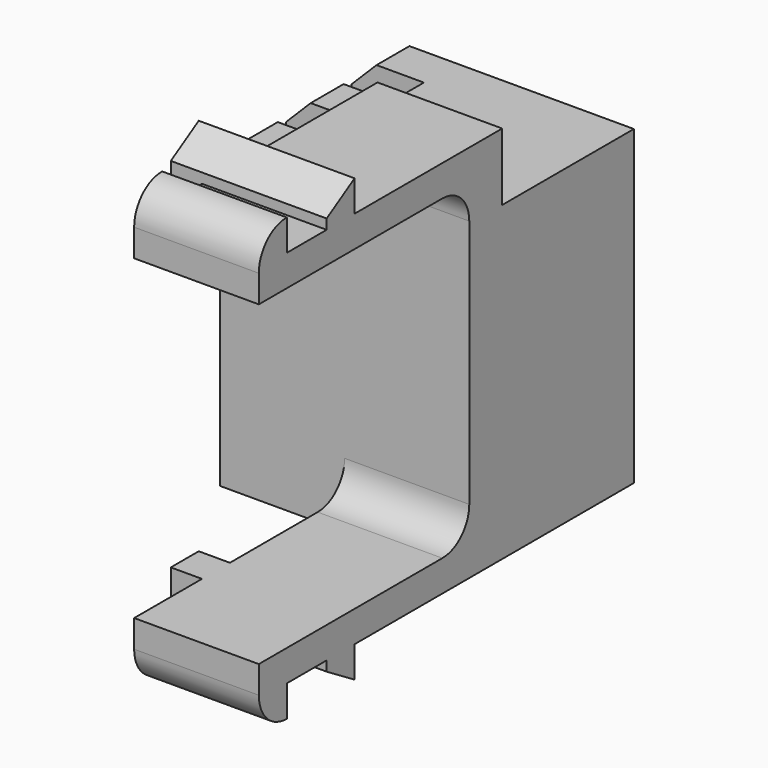
from build123d import *

# Parameters (mm, degrees)
PAD017_DEPTH              = 5
PAD020_DEPTH              = 6.25
SKETCH038_W               = 10
SKETCH038_H               = 1.65
PAD021_DEPTH              = 5
SKETCH078_W               = 12.5
SKETCH078_H               = 1.65
PAD047_DEPTH              = 10
SKETCH076_W               = 9.6
SKETCH076_H               = 1.65
PAD048_DEPTH              = 10
SKETCH075_W               = 12.5
SKETCH075_H               = 1.65
PAD049_DEPTH              = 7.1
SKETCH077_W               = 12.5
SKETCH077_H               = 1.65
PAD050_DEPTH              = 10
LINEARPATTERN017_COUNT    = 2
LINEARPATTERN017_PITCH    = 3.3
CHAMFER007_SIZE           = 1
MIRROR009_PLACEMENT_ANGLE = 90


with BuildPart() as obj1:
    # Sketch034 → Pad017 (new body)
    with BuildSketch(Plane.XY):
        with BuildLine():
            Line((-1.35, -1.8), (-1.35, 6))
            ThreePointArc((0, 7.35), (-0.954594, 6.954594), (-1.35, 6))
            Line((0, 9), (0, 7.35))
            Line((-2.6, 9), (0, 9))
            Line((-2.6, -1.8), (-2.6, 9))
            Line((-3.85, -1.8), (-2.6, -1.8))
            ThreePointArc((-3.85, -1.8), (-3.439949, -2.789949), (-2.45, -3.2))
            Line((-1.35, -3.2), (-2.45, -3.2))
            Line((-1.35, -1.8), (-1.35, -3.2))
        make_face()
    extrude(amount=PAD017_DEPTH)

    # Sketch037 → Pad020 (join)
    with BuildSketch(Plane.XY):
        Polygon((-1.35, 0.2), (-1.35, 1.6), (-2.6, 1.6), (-3.85, 1.6), (-3, 0.2), (-2.6, 0.2), align=None)
    extrude(amount=PAD020_DEPTH)


with BuildPart() as body026:
    # Mirror002: instance of _obj1
    add(obj1.part.mirror(Plane(origin=(5, 0, 0), x_dir=(0, 1, 0), z_dir=(-1, 0, 0))))

    # Fusion002: union _obj1
    add(obj1.part)


with BuildPart() as body026_1:
    # Clone003 placement: moved
    add(body026.part.moved(Location((-5, 0, 0))))

    # Sketch038 → Pad021 (new body)
    with BuildSketch(Plane.XY):
        with Locations((0, 8.175)):
            Rectangle(SKETCH038_W, SKETCH038_H)
    extrude(amount=PAD021_DEPTH)

    # Sketch078 → Pad047 (new body)
    with BuildSketch(Plane.XY):
        with Locations((1.35, 8.175)):
            Rectangle(SKETCH078_W, SKETCH078_H)
    extrude(amount=PAD047_DEPTH)

    # Sketch076 → Pad048 (join)
    with BuildSketch(Plane.XY):
        with Locations((2.8, 9.825)):
            Rectangle(SKETCH076_W, SKETCH076_H)
    pad048 = extrude(amount=PAD048_DEPTH)

    # Sketch075 → Pad049 (join)
    with BuildSketch(Plane.XY):
        with Locations((1.35, 9.825)):
            Rectangle(SKETCH075_W, SKETCH075_H)
    pad049 = extrude(amount=PAD049_DEPTH)

    # Sketch077 → Pad050 (join)
    with BuildSketch(Plane.XY):
        with Locations((1.35, 11.475)):
            Rectangle(SKETCH077_W, SKETCH077_H)
    pad050 = extrude(amount=PAD050_DEPTH)

    # LinearPattern017: Pad050, Pad049, Pad048 ×2
    with Locations(*[(0, i * LINEARPATTERN017_PITCH, 0) for i in range(1, LINEARPATTERN017_COUNT)]):
        add(pad050)
        add(pad049)
        add(pad048)

    # Chamfer007
    chamfer007_edges = [body026_1.edges().sort_by_distance(p)[0] for p in [
        (-4.9, 8.175, 10),
        (-4.9, 11.475, 10),
        (-4.9, 14.775, 10),
    ]]
    chamfer(chamfer007_edges, length=CHAMFER007_SIZE)


with BuildPart() as mirror009:
    # Mirror009: instance of Body026
    add(body026_1.part.mirror(Plane(origin=(0, 0, 0), x_dir=(0, -1, 0), z_dir=(1, 0, 0))))


with BuildPart() as mirror009_1:
    # Mirror009 placement: moved
    add(mirror009.part.moved(Location((2.5, 0, 7.6))).rotate(Axis((2.5, 0, 7.6), (0, -1, 0)), MIRROR009_PLACEMENT_ANGLE))


solid = mirror009_1.part
